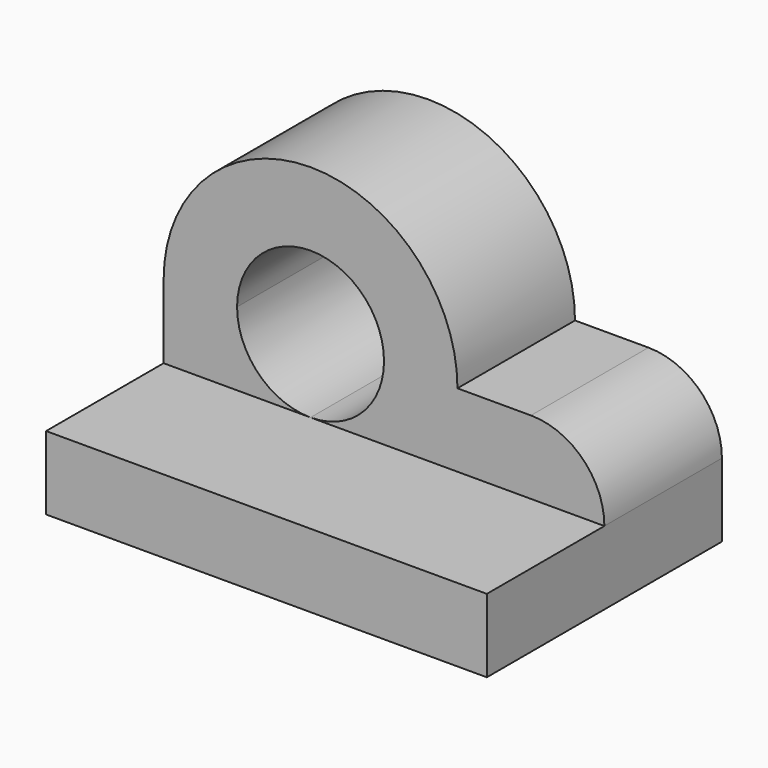
from build123d import *

# Parameters (mm, degrees)
F1_DEPTH = 40
F2_DEPTH = 20


with BuildPart() as f1:
    # F0 (on Front) → F1 (new body)
    with BuildSketch(Plane.XZ):
        with BuildLine():
            ThreePointArc((37.3205080757, 10), (30, 2.6794919243), (20, 0))
            Line((20, 0), (60, 0))
            Line((60, 0), (60, 10))
            Line((60, 10), (37.3205080757, 10))
        make_face()
        with BuildLine():
            Line((0, 10), (0, 0))
            Line((0, 0), (20, 0))
            ThreePointArc((20, 0), (10, 2.6794919243), (2.6794919243, 10))
            Line((2.6794919243, 10), (0, 10))
        make_face()
        with BuildLine():
            ThreePointArc((2.6794919243, 10), (10, 2.6794919243), (20, 0))
            ThreePointArc((20, 0), (30, 2.6794919243), (37.3205080757, 10))
            Line((37.3205080757, 10), (19.9999999466, 10))
            Line((19.9999999466, 10), (2.6794919243, 10))
        make_face()
    extrude(amount=F1_DEPTH)

    # F0 (on Front) → F2 (join)
    with BuildSketch(Plane.XZ):
        with BuildLine():
            Line((0, 10), (0, 0))
            Line((0, 0), (20, 0))
            ThreePointArc((20, 0), (10, 2.6794919243), (2.6794919243, 10))
            Line((2.6794919243, 10), (0, 10))
        make_face()
        with BuildLine():
            Line((0, 20), (0, 10))
            Line((0, 10), (2.6794919243, 10))
            ThreePointArc((2.6794919243, 10), (0.6814834742, 14.8236190979), (0, 20))
        make_face()
        with BuildLine():
            ThreePointArc((37.3205080757, 10), (30, 2.6794919243), (20, 0))
            Line((20, 0), (60, 0))
            Line((60, 0), (60, 10))
            Line((60, 10), (37.3205080757, 10))
        make_face()
        with BuildLine():
            ThreePointArc((2.6794919243, 10), (10, 2.6794919243), (20, 0))
            ThreePointArc((20, 0), (30, 2.6794919243), (37.3205080757, 10))
            Line((37.3205080757, 10), (19.9999999466, 10))
            Line((19.9999999466, 10), (2.6794919243, 10))
        make_face()
        with BuildLine():
            ThreePointArc((0, 20), (0.6814834742, 14.8236190979), (2.6794919243, 10))
            Line((2.6794919243, 10), (19.9999999466, 10))
            ThreePointArc((19.9999999466, 10), (12.9289321693, 12.928932207), (10, 20))
            Line((10, 20), (0, 20))
        make_face()
        with BuildLine():
            ThreePointArc((40, 20), (20, 40), (0, 20))
            Line((0, 20), (10, 20))
            ThreePointArc((10, 20), (20, 30), (30, 20))
            Line((30, 20), (40, 20))
        make_face()
        with BuildLine():
            ThreePointArc((40, 20), (39.3185165258, 14.8236190979), (37.3205080757, 10))
            Line((37.3205080757, 10), (60, 10))
            ThreePointArc((60, 10), (57.0710678119, 17.0710678119), (50, 20))
            Line((50, 20), (40, 20))
        make_face()
        with BuildLine():
            Line((19.9999999466, 10), (37.3205080757, 10))
            ThreePointArc((37.3205080757, 10), (39.3185165258, 14.8236190979), (40, 20))
            Line((40, 20), (30, 20))
            ThreePointArc((30, 20), (27.071067793, 12.9289321693), (19.9999999466, 10))
        make_face()
    extrude(amount=F2_DEPTH)


solid = f1.part
